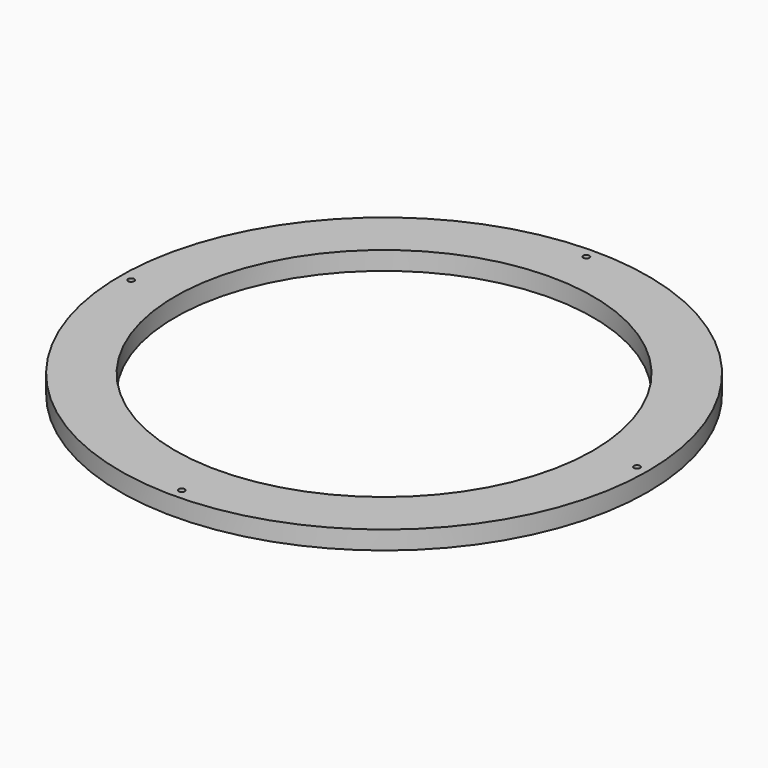
from build123d import *

# Parameters (mm, degrees)
F2_R     = 2.5
F3_DEPTH = 25


with BuildPart() as f1:
    # F0 (on Front) → F1 (revolve)
    with BuildSketch(Plane.XZ):
        with BuildLine():
            Line((195, 0), (214.8, 0))
            Line((214.8, 0), (214.8, 15))
            Line((214.8, 15), (170, 15))
            Line((170, 15), (170, 0))
            Line((170, 0), (190.003342, 0))
            ThreePointArc((190.003342, 0), (192.501671, 2.591396), (195, 0))
        make_face()
    revolve(axis=Axis((0, 0, 19.496838), (0, 0, 1)))

    # F2 (on face) → F3 (cut)
    with BuildSketch(Plane.XY.offset(15)):
        with Locations((205.8, 0)):
            Circle(F2_R)
        with Locations((0, 205.8)):
            Circle(F2_R)
        with Locations((-205.8, 0)):
            Circle(F2_R)
        with Locations((0, -205.8)):
            Circle(F2_R)
    extrude(amount=-F3_DEPTH, mode=Mode.SUBTRACT)


solid = f1.part
